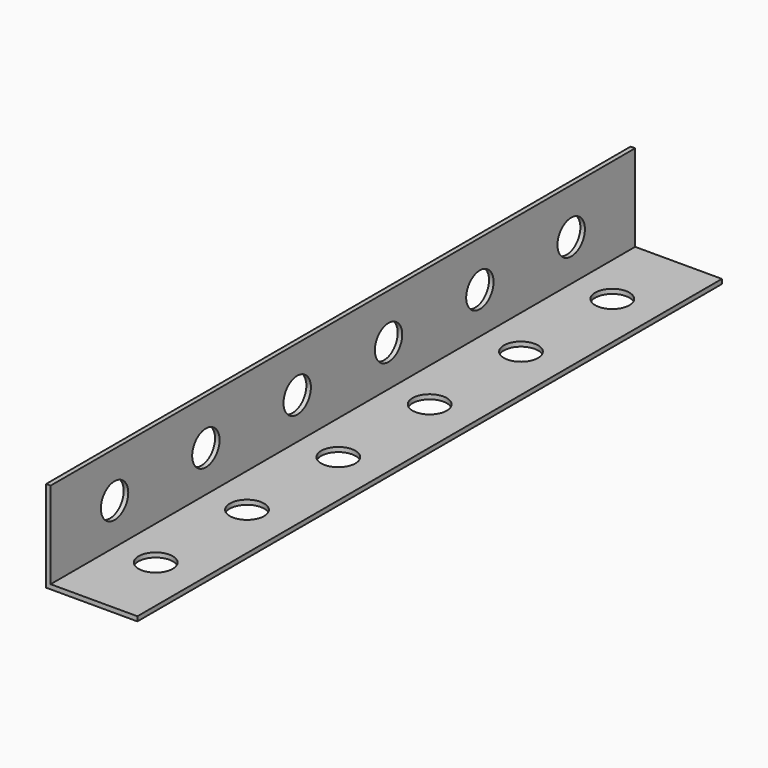
from build123d import *

# Parameters (mm, degrees)
F0_W     = 36.20262
F0_H     = 1.89738
F1_DEPTH = 304.8
F2_R     = 7.14375
F3_DEPTH = 25.4
F4_R     = 7.14375
F5_DEPTH = 25.4


with BuildPart() as f1:
    # F0 (on Front) → F1 (new body)
    with BuildSketch(Plane.XZ):
        with Locations((19.99869, 0.94869)):
            Rectangle(F0_W, F0_H)
        Polygon((0, 38.1), (0, 0), (1.89738, 0), (1.89738, 1.89738), (1.89738, 38.1), align=None)
    extrude(amount=F1_DEPTH)

    # F2 (on face) → F3 (cut)
    with BuildSketch(Plane.XY.offset(1.89738)):
        with Locations((19.05, -271.4625)):
            Circle(F2_R)
        with Locations((19.05, -223.8375)):
            Circle(F2_R)
        with Locations((19.05, -176.2125)):
            Circle(F2_R)
        with Locations((19.05, -128.5875)):
            Circle(F2_R)
        with Locations((19.05, -80.9625)):
            Circle(F2_R)
        with Locations((19.05, -33.3375)):
            Circle(F2_R)
    extrude(amount=-F3_DEPTH, mode=Mode.SUBTRACT)

    # F4 (on face) → F5 (cut)
    with BuildSketch(Plane.YZ.offset(1.89738)):
        with Locations((-271.4625, 19.05)):
            Circle(F4_R)
        with Locations((-223.8375, 19.05)):
            Circle(F4_R)
        with Locations((-176.2125, 19.05)):
            Circle(F4_R)
        with Locations((-128.5875, 19.05)):
            Circle(F4_R)
        with Locations((-80.9625, 19.05)):
            Circle(F4_R)
        with Locations((-33.3375, 19.05)):
            Circle(F4_R)
    extrude(amount=-F5_DEPTH, mode=Mode.SUBTRACT)


solid = f1.part
